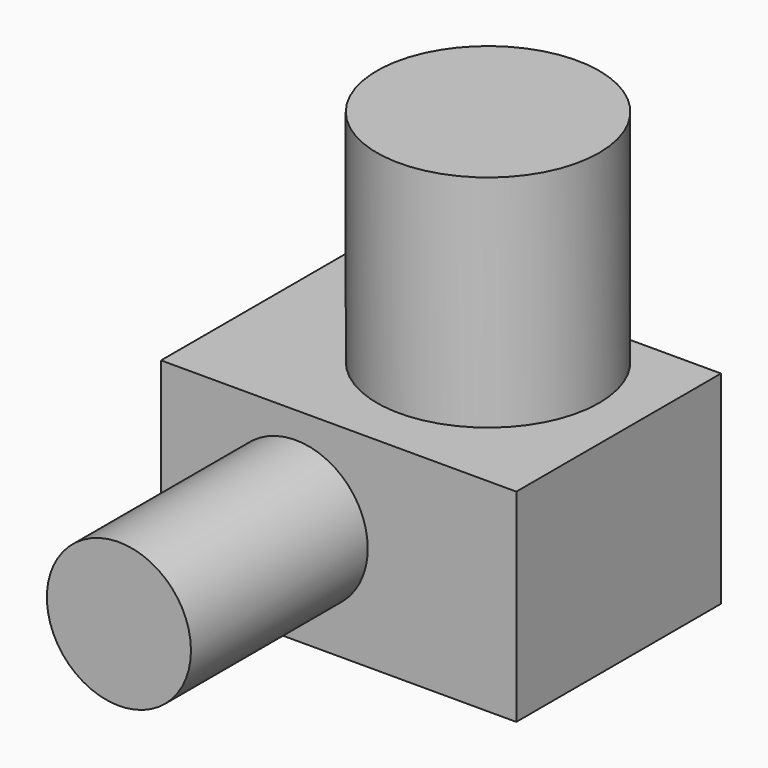
from build123d import *

# Parameters (mm, degrees)
F0_R     = 37.1794953158
F1_DEPTH = 73.66
F3_DEPTH = 67.818
F4_R     = 24.1009432371
F5_DEPTH = 73.914


with BuildPart() as f1:
    # F0 (on Top) → F1 (new body)
    with BuildSketch(Plane.XY):
        with Locations((0, 4.0802885778)):
            Circle(F0_R)
    extrude(amount=F1_DEPTH)

    # F2 (on face) + F0 (on Top) → F3 (join)
    with BuildSketch(Plane.XY):
        with BuildLine():
            Line((-17.3161878706, 36.9811169803), (-67.2493875027, 36.9811169803))
            Line((-67.2493875027, 36.9811169803), (-67.2493875027, -48.5952086747))
            Line((-67.2493875027, -48.5952086747), (51.5947751701, -48.5952086747))
            Line((51.5947751701, -48.5952086747), (51.5947751701, 36.9811169803))
            Line((51.5947751701, 36.9811169803), (17.3161878706, 36.9811169803))
            ThreePointArc((17.3161878706, 36.9811169803), (31.8286191796, 23.2962682057), (37.1794953158, 4.0802885778))
            ThreePointArc((37.1794953158, 4.0802885778), (-19.2159796279, -27.7483306018), (-17.3161878706, 36.9811169803))
        make_face()
    with BuildSketch(Plane.XY):
        with Locations((0, 4.0802885778)):
            Circle(F0_R)
    extrude(amount=-F3_DEPTH)

    # F4 (on face) → F5 (join)
    with BuildSketch(Plane.XZ.offset(48.5952086747)):
        with Locations((-22.2101341933, -32.9192616045)):
            Circle(F4_R)
    extrude(amount=F5_DEPTH)


solid = f1.part
